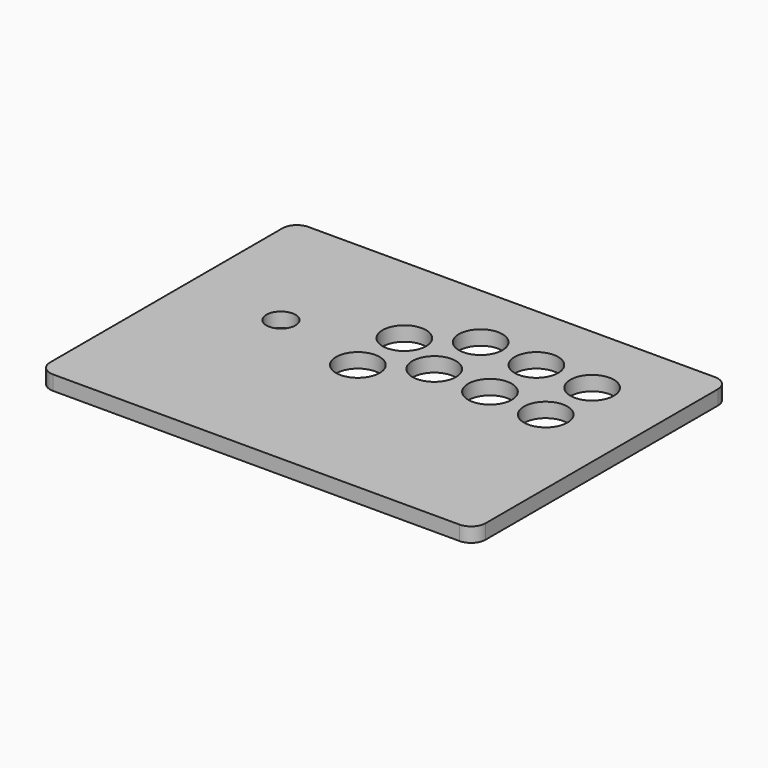
from build123d import *

# Parameters (mm, degrees)
F1_DEPTH = 10
F2_R     = 10
F2_R_2   = 15
F3_DEPTH = 10


with BuildPart() as f1:
    # F0 (on Top) → F1 (new body)
    with BuildSketch(Plane.XY):
        with BuildLine():
            Line((140, 110), (-140, 110))
            ThreePointArc((-140, 110), (-147.071068, 107.071068), (-150, 100))
            Line((-150, 100), (-150, -100))
            ThreePointArc((-150, -100), (-147.071068, -107.071068), (-140, -110))
            Line((-140, -110), (140, -110))
            ThreePointArc((140, -110), (147.071068, -107.071068), (150, -100))
            Line((150, -100), (150, 100))
            ThreePointArc((150, 100), (147.071068, 107.071068), (140, 110))
        make_face()
    extrude(amount=F1_DEPTH)

    # F2 (on face) → F3 (cut)
    with BuildSketch(Plane.XY.offset(10)):
        with Locations((-83.84011, 16.042637)):
            Circle(F2_R)
        with Locations((-18.84011, 41.042637)):
            Circle(F2_R_2)
        with Locations((16.15989, 63.042637)):
            Circle(F2_R_2)
        with Locations((56.15989, 61.042637)):
            Circle(F2_R_2)
        with Locations((96.15989, 59.042637)):
            Circle(F2_R_2)
        with Locations((96.15989, 19.042637)):
            Circle(F2_R_2)
        with Locations((56.15989, 21.042637)):
            Circle(F2_R_2)
        with Locations((16.15989, 23.042637)):
            Circle(F2_R_2)
        with Locations((-18.84011, 1.042637)):
            Circle(F2_R_2)
    extrude(amount=-F3_DEPTH, mode=Mode.SUBTRACT)


solid = f1.part
